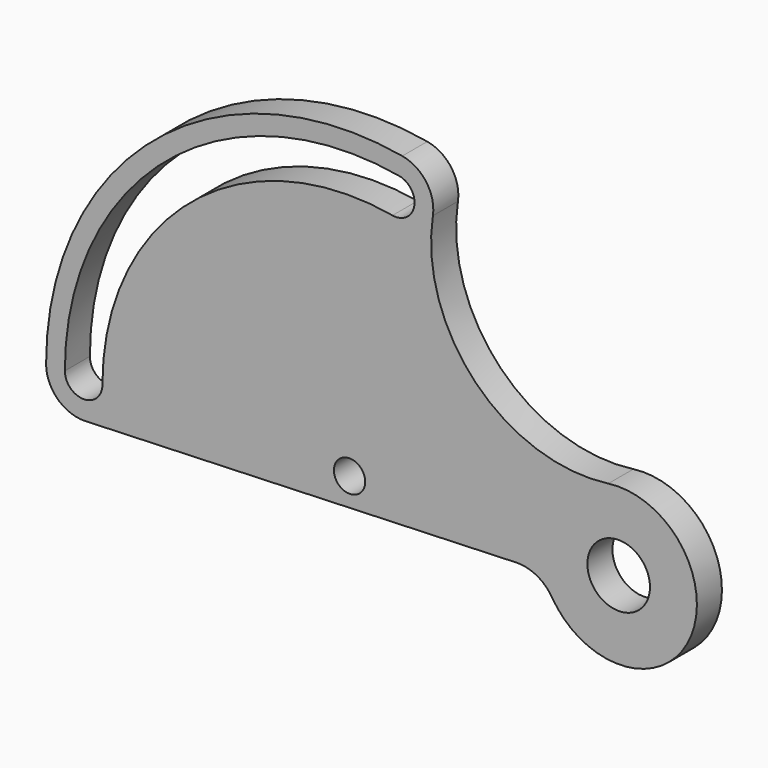
from build123d import *

# Parameters (mm, degrees)
F0_R     = 5
F0_R_2   = 10
F1_DEPTH = 10


with BuildPart() as f1:
    # F0 (on Front) → F1 (new body)
    with BuildSketch(Plane.XZ):
        with BuildLine():
            ThreePointArc((26.622207, 81.89474), (24.510848, 90.703144), (16.843873, 95.526352))
            ThreePointArc((16.843873, 95.526352), (-62.350398, 74.306311), (-97, 0))
            ThreePointArc((-97, 0), (-93.330515, -8.637275), (-84.566247, -11.992158))
            Line((-84.566247, -11.992158), (53.219112, -7.008495))
            ThreePointArc((53.219112, -7.008495), (59.80933, -8.530837), (64.74277, -13.157895))
            ThreePointArc((64.74277, -13.157895), (108.60042, -10.687423), (82.682558, 24.778914))
            ThreePointArc((82.682558, 24.778914), (40.364163, 39.312648), (26.622207, 81.89474))
        make_face()
        Circle(F0_R, mode=Mode.SUBTRACT)
        with Locations((86, 0)):
            Circle(F0_R_2, mode=Mode.SUBTRACT)
        with BuildLine():
            ThreePointArc((13.718206, 77.799812), (-50.780221, 60.517511), (-79, 0))
            ThreePointArc((-79, 0), (-85, -6), (-91, 0))
            ThreePointArc((-91, 0), (-58.493672, 69.710044), (15.801984, 89.617506))
            ThreePointArc((15.801984, 89.617506), (20.668942, 82.66677), (13.718206, 77.799812))
        make_face(mode=Mode.SUBTRACT)
    extrude(amount=F1_DEPTH)


solid = f1.part
